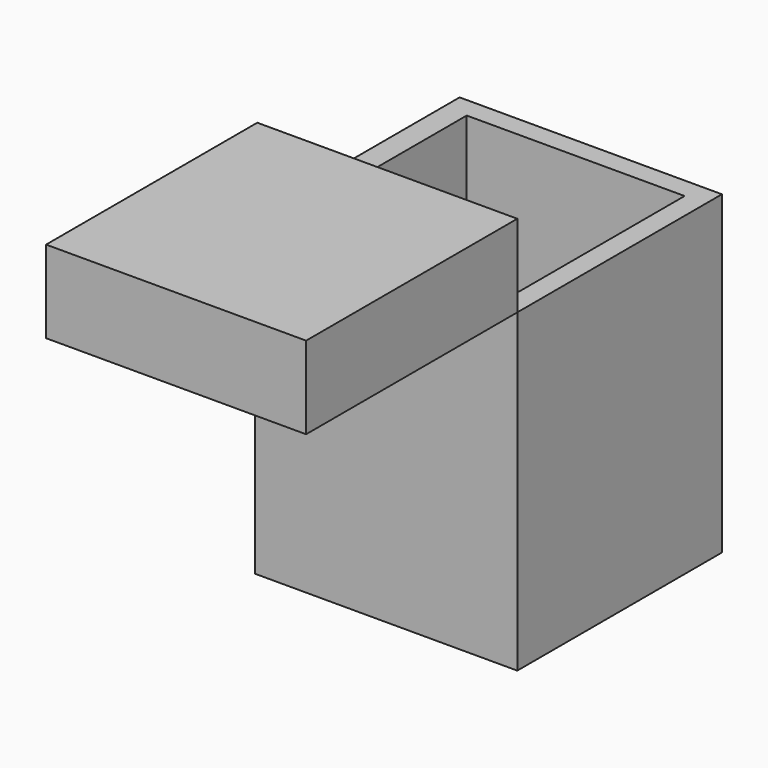
from build123d import *

# Parameters (mm, degrees)
F0_W     = 64.670675
F0_H     = 63.054867
F1_DEPTH = 77.758297
F2_W     = 53.718403
F2_H     = 52.32276
F3_DEPTH = 59.240542
F4_R     = 4.984457
F5_DEPTH = 50.8
F6_R     = 5.763663
F7_DEPTH = 40.197752
F8_W     = 64.104669
F8_H     = 65.083817
F9_DEPTH = 20.32


with BuildPart() as f1:
    # F0 (on Top) → F1 (new body)
    with BuildSketch(Plane.XY):
        with Locations((-32.335338, 31.527433)):
            Rectangle(F0_W, F0_H)
    extrude(amount=-F1_DEPTH)

    # F2 (on face) → F3 (cut)
    with BuildSketch(Plane.XY):
        with Locations((-32.012037, 31.835213)):
            Rectangle(F2_W, F2_H)
    extrude(amount=-F3_DEPTH, mode=Mode.SUBTRACT)

    # F4 (on face) → F5 (join)
    with BuildSketch(Plane.XZ.offset(-57.996593)):
        with Locations((-32.012038, -31.445377)):
            Circle(F4_R)
    extrude(amount=F5_DEPTH)

    # F6 (on face) → F7 (join)
    with BuildSketch(Plane.XY.offset(-59.240542)):
        with Locations((-16.624123, 33.674024)):
            Circle(F6_R)
    extrude(amount=F7_DEPTH)


with BuildPart() as f9:
    # F8 (on Top) → F9 (new body)
    with BuildSketch(Plane.XY):
        with Locations((-32.052335, -32.541908)):
            Rectangle(F8_W, F8_H)
    extrude(amount=F9_DEPTH)


solid = Compound([f1.part, f9.part])
